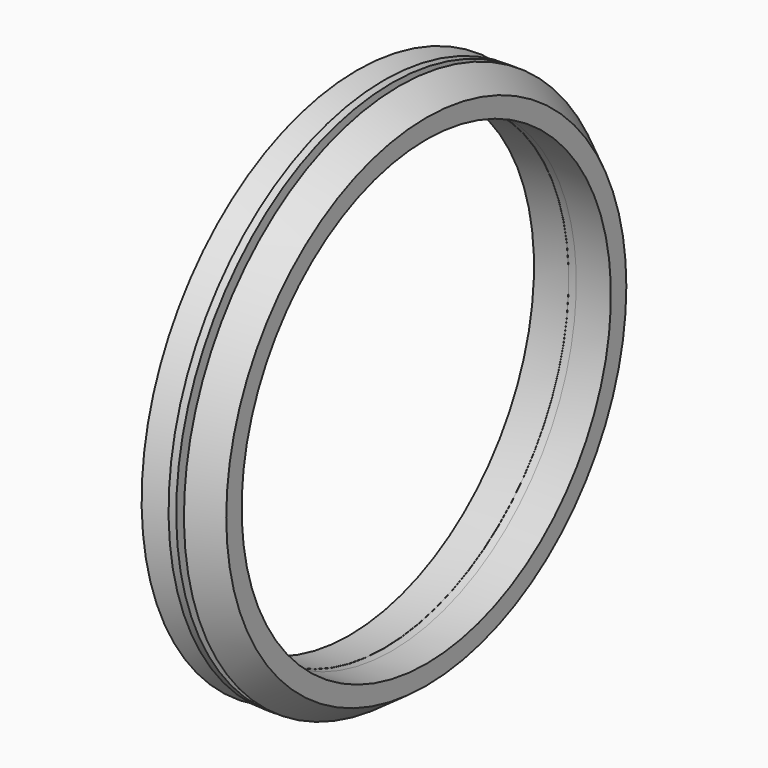
from build123d import *

# Parameters (mm, degrees)
F0_W = 2
F0_H = 9.95


with BuildPart() as f1:
    # F0 (on Front) → F1 (revolve)
    with BuildSketch(Plane.XZ):
        with Locations((0, 65.025)):
            Rectangle(F0_W, F0_H)
    revolve(axis=Axis((8.224491, 0, 0), (1, 0, 0)))

    # F2 (on Front) → F3 (revolve)
    with BuildSketch(Plane.XZ):
        Polygon((-2.720465, 65), (-10, 65), (-10, 60), (-1, 60), (-1, 65), (-8, 70), (-8, 68.771096), align=None)
        Polygon((8.279535, 65), (1, 65), (1, 60), (10, 60), (10, 65), (3, 70), (3, 68.771096), align=None)
    revolve(axis=Axis((3.221242, 0, 0), (1, 0, 0)))


solid = f1.part
